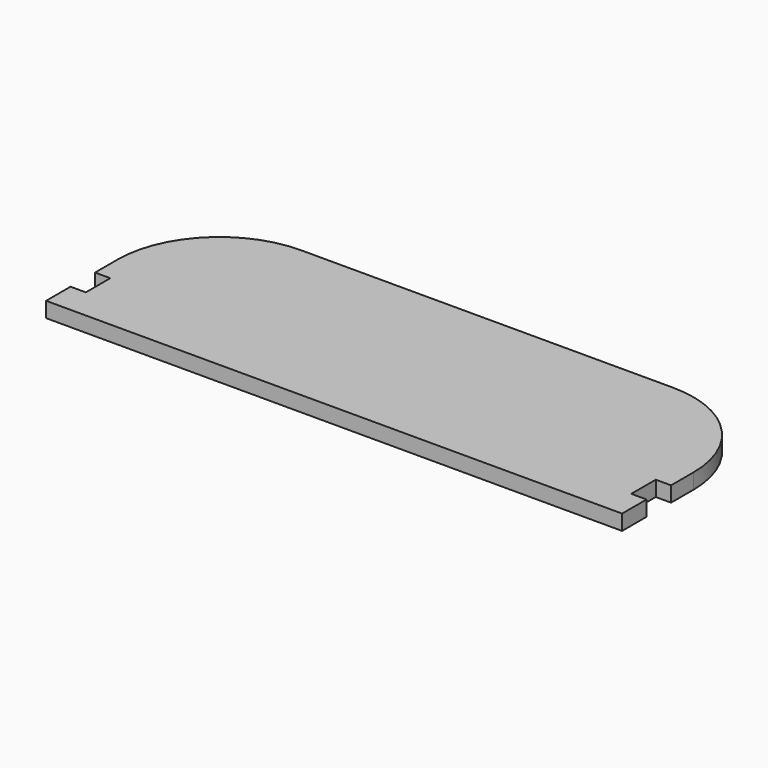
from build123d import *

# Parameters (mm, degrees)
PAD_DEPTH = 6


with BuildPart() as part:
    # Sketch → Pad (new body)
    with BuildSketch(Plane.XY):
        with BuildLine():
            Line((0, 0), (113, 0))
            Line((113, 0), (113, 12))
            Line((113, 12), (107, 12))
            Line((107, 12), (107, 24))
            Line((107, 24), (113, 24))
            Line((113, 24), (113, 35))
            ThreePointArc((113, 35), (101.284271, 63.284271), (73, 75))
            Line((73, 75), (0, 75))
            Line((-73, 75), (0, 75))
            ThreePointArc((-73, 75), (-101.284271, 63.284271), (-113, 35))
            Line((-113, 24), (-113, 35))
            Line((-107, 24), (-113, 24))
            Line((-107, 12), (-107, 24))
            Line((-113, 12), (-107, 12))
            Line((-113, 0), (-113, 12))
            Line((0, 0), (-113, 0))
        make_face()
    extrude(amount=PAD_DEPTH)


solid = part.part
